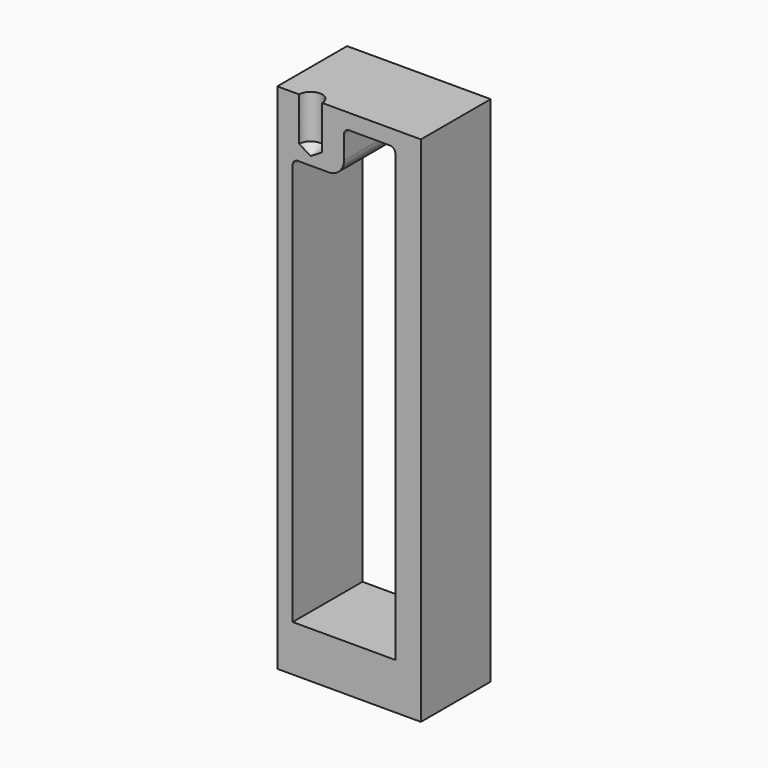
from build123d import *

# Parameters (mm, degrees)
F0_W     = 28
F0_H     = 100
F1_DEPTH = 25
F3_D     = 4.5
F3_DEPTH = 8.5
F3_TIP   = 1.3519363928
F4_W     = 28
F4_H     = 8
F5_DEPTH = 100.001


with BuildPart() as f1:
    # F0 (on Front) → F1 (new body)
    with BuildSketch(Plane.XZ):
        with Locations((14, 50)):
            Rectangle(F0_W, F0_H)
        with BuildLine():
            Line((14, 97), (22, 97))
            ThreePointArc((22, 97), (22.7071067812, 96.7071067812), (23, 96))
            Line((23, 96), (23, 9.0192308693))
            Line((23, 9.0192308693), (3, 9.0192308693))
            Line((3, 9.0192308693), (3, 87.5))
            ThreePointArc((3, 87.5), (3.2928932188, 88.2071067812), (4, 88.5))
            Line((4, 88.5), (10, 88.5))
            ThreePointArc((10, 88.5), (12.1213203436, 89.3786796564), (13, 91.5))
            Line((13, 91.5), (13, 96))
            ThreePointArc((13, 96), (13.2928932188, 96.7071067812), (14, 97))
        make_face(mode=Mode.SUBTRACT)
    extrude(amount=F1_DEPTH)

    # F3
    with Locations(Plane.XY.offset(100)):
        with Locations((6.5, -17)):
            Hole(F3_D / 2, depth=F3_DEPTH)
            with Locations((0, 0, -(F3_DEPTH + F3_TIP / 2))):  # 118° drill point
                Cone(0, F3_D / 2, F3_TIP, mode=Mode.SUBTRACT)

    # F4 (on face) → F5 (cut, through all)
    with BuildSketch(Plane.XY.offset(100)):
        with Locations((14, -21)):
            Rectangle(F4_W, F4_H)
    extrude(amount=-F5_DEPTH, mode=Mode.SUBTRACT)


solid = f1.part
